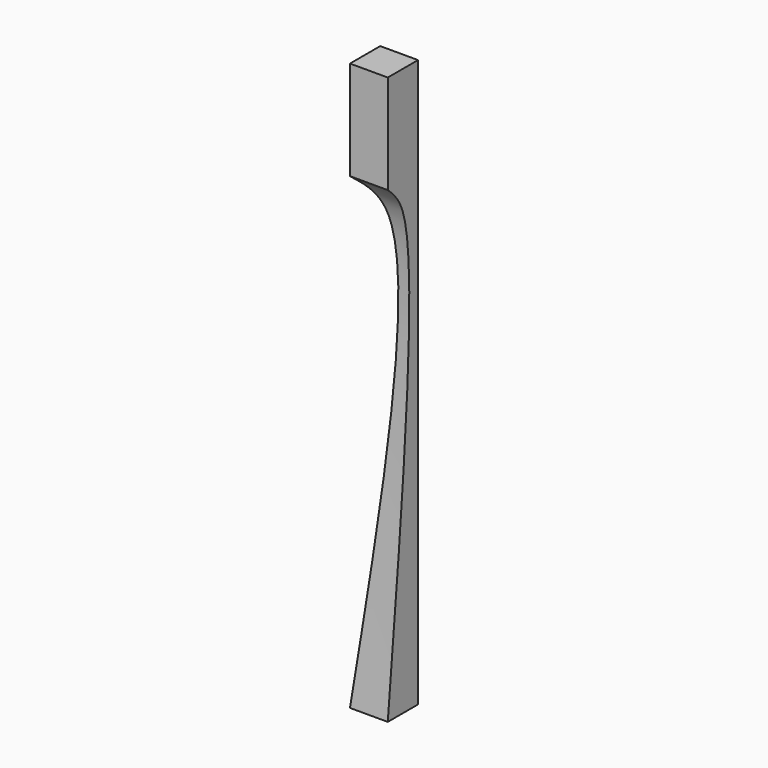
from build123d import *

# Parameters (mm, degrees)
F0_W     = 50.8
F0_H     = 762
F1_DEPTH = 50.8
F3_DEPTH = 50.801
F5_DEPTH = 50.8010001


with BuildPart() as f1:
    # F0 (on Front) → F1 (new body)
    with BuildSketch(Plane.XZ):
        with Locations((25.4, 381)):
            Rectangle(F0_W, F0_H)
    extrude(amount=F1_DEPTH)

    # F2 (on face) → F3 (cut, through all)
    with BuildSketch(Plane(origin=(0, 0, 0), x_dir=(0, -1, 0), z_dir=(-1, 0, 0))):
        with BuildLine():
            Line((50.8, 0), (50.8, 628.8682222366))
            add(Edge.make_bspline(
                [(50.8, 628.8682222366), (40.1594034425, 619.1082818245), (-6.0850742502, 576.6911725737), (26.0551003957, 250.8595682805), (50.8, 0)],
                knots=[0, 0, 0, 0, 0.2300944262, 1, 1, 1, 1], degree=3))
        make_face()
    extrude(amount=-F3_DEPTH, mode=Mode.SUBTRACT)

    # F4 (on face) → F5 (cut, through all)
    with BuildSketch(Plane.XZ.offset(50.8)):
        with BuildLine():
            add(Edge.make_bspline(
                [(0, 628.8682222366), (10.6405965575, 619.1082818245), (56.8850742502, 576.6911725737), (24.7448996043, 250.8595682805), (0, 0)],
                knots=[0, 0, 0, 0, 0.2300944262, 1, 1, 1, 1], degree=3))
            Line((0, 628.8682222366), (0, 0))
        make_face()
    extrude(amount=-F5_DEPTH, mode=Mode.SUBTRACT)


solid = f1.part
